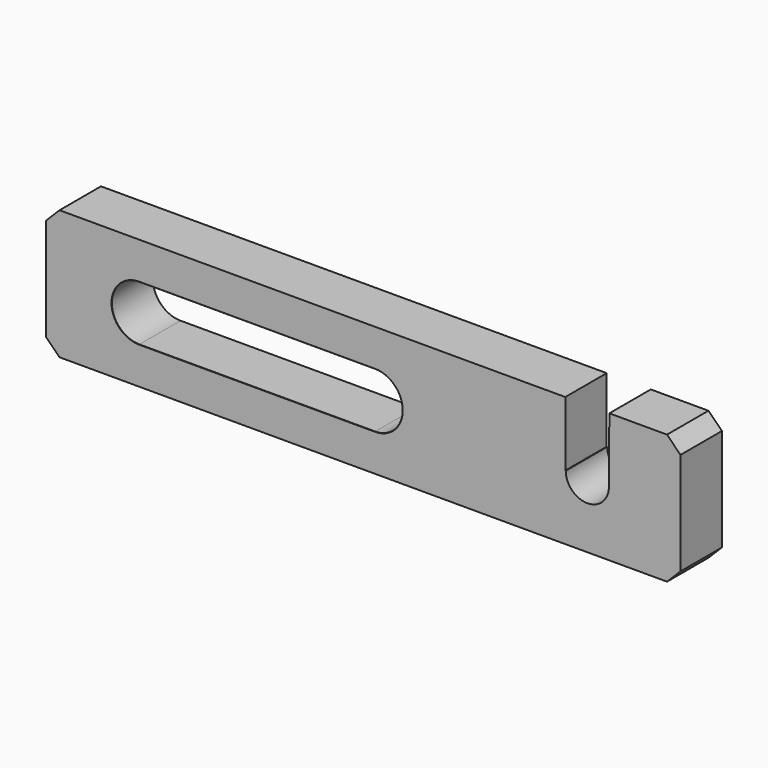
from build123d import *

# Parameters (mm, degrees)
F1_DEPTH = 12.7
F2_SIZE  = 3.302
F3_SIZE  = 0.0508


with BuildPart() as f1:
    # F0 (on Front) → F1 (new body)
    with BuildSketch(Plane.XZ):
        with BuildLine():
            Line((77.7875, -15.875), (77.7875, 15.875))
            Line((77.7875, 15.875), (60.3377, 15.875))
            Line((60.3377, 15.875), (60.231681, 0))
            ThreePointArc((60.231681, 0), (54.9402, -5.291481), (49.648719, 0))
            Line((49.648719, 0), (49.53, 0))
            Line((49.53, 0), (49.53, 15.875))
            Line((49.53, 15.875), (-77.7875, 15.875))
            Line((-77.7875, 15.875), (-77.7875, -15.875))
            Line((-77.7875, -15.875), (77.7875, -15.875))
        make_face()
        with BuildLine():
            Line((2.8702, -6.7564), (-54.9402, -6.7564))
            ThreePointArc((-54.9402, -6.7564), (-61.6966, 0), (-54.9402, 6.7564))
            Line((-54.9402, 6.7564), (2.8702, 6.7564))
            ThreePointArc((2.8702, 6.7564), (9.6266, 0), (2.8702, -6.7564))
        make_face(mode=Mode.SUBTRACT)
    extrude(amount=F1_DEPTH)

    # F2
    f2_edges = [f1.edges().sort_by_distance(p)[0] for p in [
        (-77.7875, -6.35, 15.875),
        (-77.7875, -6.35, -15.875),
        (77.7875, -6.35, -15.875),
        (77.7875, -6.35, 15.875),
    ]]
    chamfer(f2_edges, length=F2_SIZE)

    # F3
    f3_edges = [f1.edges().sort_by_distance(p)[0] for p in [
        (-26.035, -12.7, 6.7564),
        (-61.6966, -12.7, 0),
        (-26.035, -12.7, -6.7564),
        (9.6266, -12.7, 0),
        (-61.6966, 0, 0),
        (-26.035, 0, -6.7564),
        (-26.035, 0, 6.7564),
        (9.6266, 0, 0),
    ]]
    chamfer(f3_edges, length=F3_SIZE)


solid = f1.part
